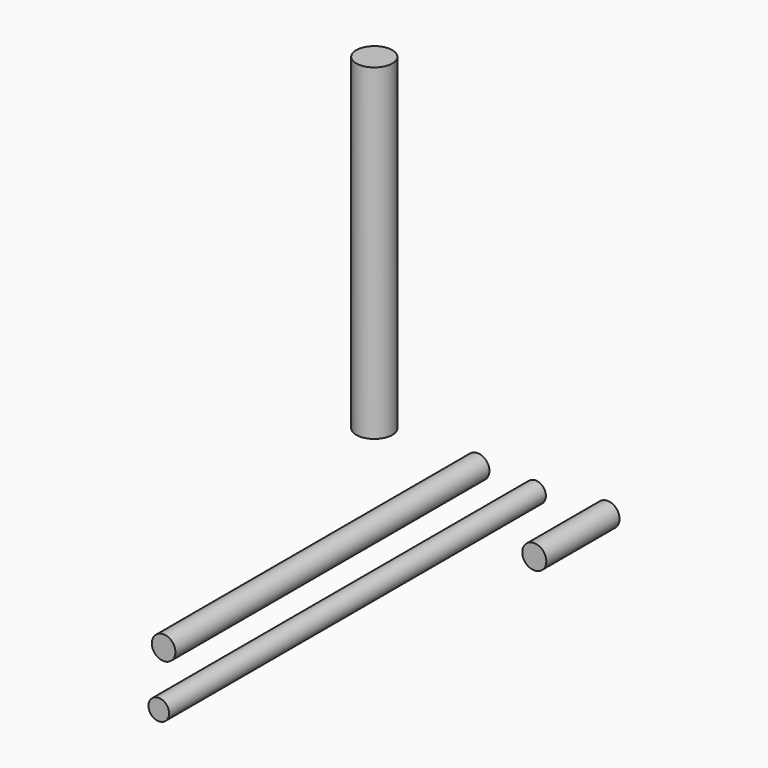
from build123d import *

# Parameters (mm, degrees)
F0_R     = 22.910667
F1_DEPTH = 762
F2_R     = 20.065159
F3_DEPTH = 914.4
F4_R     = 35.069641
F5_DEPTH = 635
F6_R     = 23.347406
F7_DEPTH = 177.8


with BuildPart() as f1:
    # F0 (on Front) → F1 (new body)
    with BuildSketch(Plane.XZ):
        Circle(F0_R)
    extrude(amount=F1_DEPTH)


with BuildPart() as f3:
    # F2 (on Front) → F3 (new body)
    with BuildSketch(Plane.XZ):
        with Locations((112.495266, -7.218947)):
            Circle(F2_R)
    extrude(amount=F3_DEPTH)


with BuildPart() as f5:
    # F4 (on Top) → F5 (new body)
    with BuildSketch(Plane.XY):
        with Locations((-200.570181, 0)):
            Circle(F4_R)
    extrude(amount=F5_DEPTH)


with BuildPart() as f7:
    # F6 (on Front) → F7 (new body)
    with BuildSketch(Plane.XZ):
        with Locations((252.217591, 0)):
            Circle(F6_R)
    extrude(amount=F7_DEPTH)


solid = Compound([f1.part, f3.part, f5.part, f7.part])
